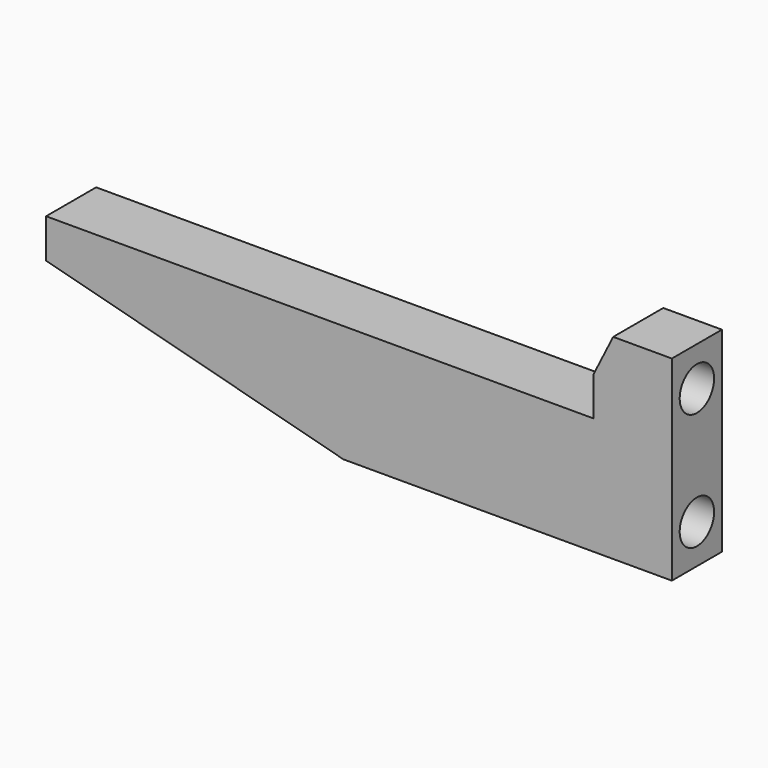
from build123d import *

# Parameters (mm, degrees)
F1_DEPTH      = 4
F1_DEPTH_BACK = 4
F3_D          = 5.5
F3_DEPTH      = 7.5
F3_TIP        = 1.6523667023


with BuildPart() as f1:
    # F0 (on Front) → F1 (new body, two sides)
    with BuildSketch(Plane.XZ) as f1_sk:
        Polygon((-38, 10), (0, 0), (42, 0), (42, 25), (34.5, 25), (32, 20), (32, 15), (-38, 15), align=None)
    extrude(amount=F1_DEPTH)
    extrude(f1_sk.sketch, amount=-F1_DEPTH_BACK)

    # F3
    with Locations(Plane.YZ.offset(42)):
        with Locations((0, 20), (0, 5)):
            Hole(F3_D / 2, depth=F3_DEPTH)
            with Locations((0, 0, -(F3_DEPTH + F3_TIP / 2))):  # 118° drill point
                Cone(0, F3_D / 2, F3_TIP, mode=Mode.SUBTRACT)


solid = f1.part
